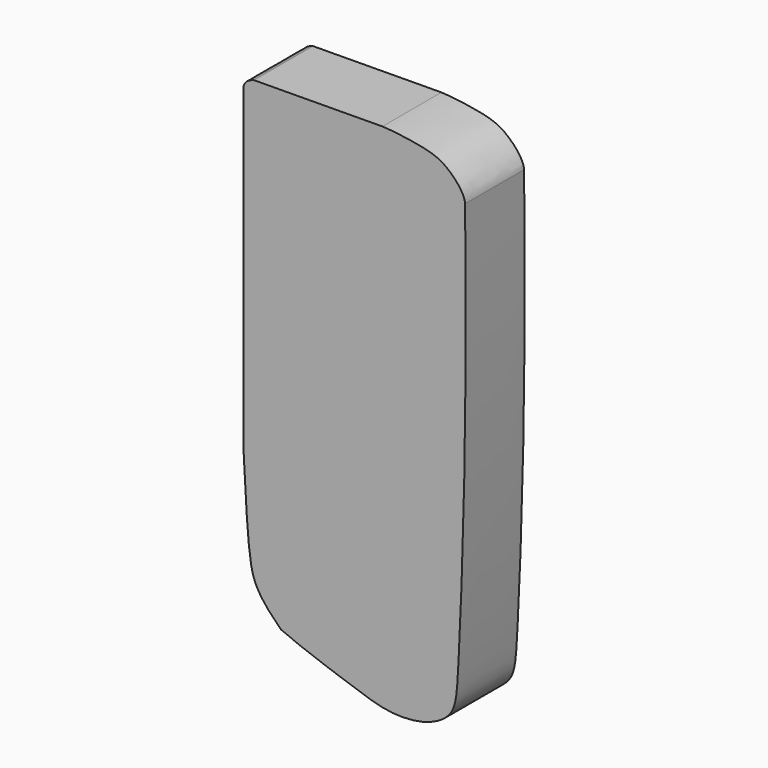
from build123d import *

# Parameters (mm, degrees)
F1_DEPTH = 8.89


with BuildPart() as f1:
    # F0 (on Front) → F1 (new body)
    with BuildSketch(Plane.XZ):
        with BuildLine():
            add(Edge.make_bspline(
                [(-8.8517899239, -25.7984651067), (-11.6680012094, -23.0670236789), (-12.8198983179, -20.1892915209), (-13.0698299035, -12.9952067509), (-13.334998861, -8.6069367826)],
                knots=[0, 0, 0, 0, 0.4458493851, 1, 1, 1, 1], degree=3))
            add(Edge.make_bspline(
                [(-8.8517899239, -25.7984651067), (-6.5573255733, -26.8421364033), (0.0965683573, -29.1304489794), (4.1108982784, -30.4545407577), (8.4134186445, -30.3115102137), (12.11269576, -28.3453373487), (12.7004651392, -21.9034709367), (13.6855508979, 3.7198621975), (13.334998861, 26.583140716)],
                knots=[0, 0, 0, 0, 0.1675356569, 0.2831118187, 0.393135576, 0.4955573698, 0.6135548738, 1, 1, 1, 1], degree=3))
            add(Edge.make_bspline(
                [(13.334998861, 26.583140716), (13.2985458551, 27.5215194555), (11.386315847, 29.8109540032), (8.8027598882, 31.0103526805), (4.1598589163, 31.5336405852), (3.3770347945, 31.538747251)],
                knots=[0, 0, 0, 0, 0.311016269, 0.6205033273, 1, 1, 1, 1], degree=3))
            Line((3.3770347945, 31.538747251), (-12.0954066515, 31.4164012671))
            add(Edge.make_bspline(
                [(-13.3884791285, 30.2559509873), (-13.3860710903, 30.2948592322), (-13.2216804514, 30.8054093651), (-12.6985269812, 31.24147009), (-12.1302098421, 31.4082165248), (-12.0954066515, 31.4164012671)],
                knots=[0, 0, 0, 0, 0.2980048249, 0.6840642873, 1, 1, 1, 1], degree=3))
            Line((-13.3884791285, 30.2559509873), (-13.334998861, -8.6069367826))
        make_face()
    extrude(amount=F1_DEPTH)


solid = f1.part
